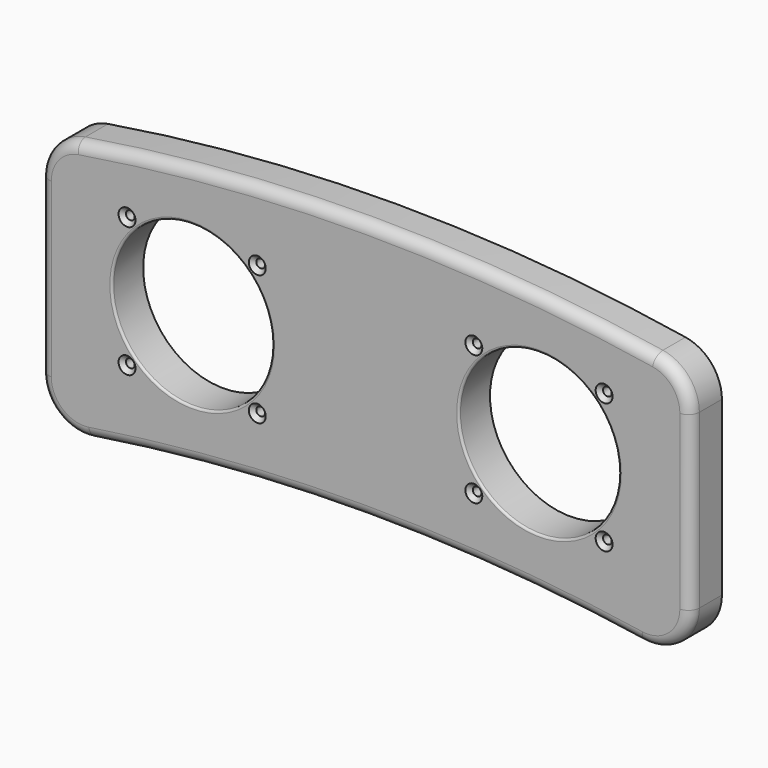
from build123d import *

# Parameters (mm, degrees)
F0_R     = 2
F0_R_2   = 37
F1_DEPTH = 18
F2_R     = 1
F3_R     = 5
F4_SIZE  = 1.9


with BuildPart() as f1:
    # F0 (on Front) → F1 (new body)
    with BuildSketch(Plane.XZ):
        with BuildLine():
            ThreePointArc((-133.204654, 99.258737), (-145.233074, 92.476837), (-150, 79.517151))
            Line((-150, 79.517151), (-150, 0.01569))
            ThreePointArc((-150, 0.01569), (-143.017649, -15.16788), (-126.945919, -19.74975))
            ThreePointArc((-126.945919, -19.74975), (0, -10), (126.945919, -19.74975))
            ThreePointArc((126.945919, -19.74975), (143.017649, -15.16788), (150, 0.01569))
            Line((150, 0.01569), (150, 79.517151))
            ThreePointArc((150, 79.517151), (145.233074, 92.476837), (133.204654, 99.258737))
            ThreePointArc((133.204654, 99.258737), (0, 110), (-133.204654, 99.258737))
        make_face()
        with Locations((-110.052038, 16.089709)):
            Circle(F0_R, mode=Mode.SUBTRACT)
        with Locations((-49.947962, 16.089709)):
            Circle(F0_R, mode=Mode.SUBTRACT)
        with Locations((49.947962, 16.089709)):
            Circle(F0_R, mode=Mode.SUBTRACT)
        with Locations((110.052038, 16.089709)):
            Circle(F0_R, mode=Mode.SUBTRACT)
        with Locations((-80, 46.141747)):
            Circle(F0_R_2, mode=Mode.SUBTRACT)
        with Locations((-110.052038, 76.193785)):
            Circle(F0_R, mode=Mode.SUBTRACT)
        with Locations((-49.947962, 76.193785)):
            Circle(F0_R, mode=Mode.SUBTRACT)
        with Locations((49.947962, 76.193785)):
            Circle(F0_R, mode=Mode.SUBTRACT)
        with Locations((80, 46.141747)):
            Circle(F0_R_2, mode=Mode.SUBTRACT)
        with Locations((110.052038, 76.193785)):
            Circle(F0_R, mode=Mode.SUBTRACT)
    extrude(amount=-F1_DEPTH)

    # F2
    f2_edges = [f1.edges().sort_by_distance(p)[0] for p in [
        (-117, 0, 46.141747),
        (43, 0, 46.141747),
    ]]
    fillet(f2_edges, radius=F2_R)

    # F3
    f3_edges = [f1.edges().sort_by_distance(p)[0] for p in [
        (0, 0, 110),
        (145.233074, 0, 92.476837),
        (150, 0, 39.766421),
        (143.017649, 0, -15.16788),
        (0, 0, -10),
        (-143.017649, 0, -15.16788),
        (-150, 0, 39.766421),
        (-145.233074, 0, 92.476837),
    ]]
    fillet(f3_edges, radius=F3_R)

    # F4
    f4_edges = [f1.edges().sort_by_distance(p)[0] for p in [
        (-112.052038, 0, 76.193785),
        (-51.947962, 0, 76.193785),
        (-112.052038, 0, 16.089709),
        (-51.947962, 0, 16.089709),
        (47.947962, 0, 16.089709),
        (47.947962, 0, 76.193785),
        (108.052038, 0, 16.089709),
        (108.052038, 0, 76.193785),
    ]]
    chamfer(f4_edges, length=F4_SIZE)


solid = f1.part
